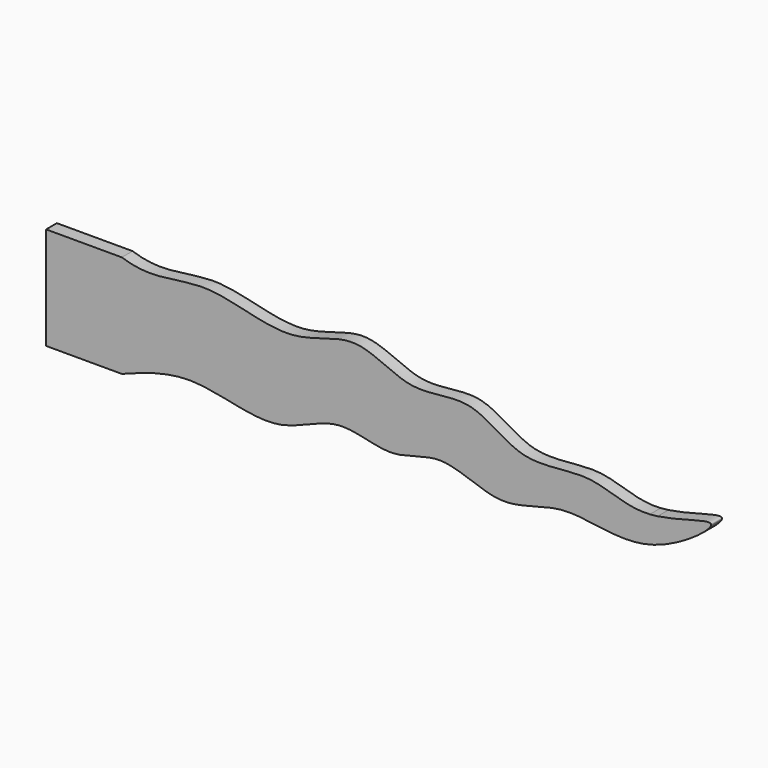
from build123d import *

# Parameters (mm, degrees)
F1_DEPTH = 7.62


with BuildPart() as f1:
    # F0 (on Front) → F1 (new body)
    with BuildSketch(Plane.XZ):
        Polygon((-87.3566900936, 24.3793912232), (-130.1354726401, 24.3793912232), (-130.1354726401, 0), (-130.1354726401, -18.9905874431), (-130.1354726401, -33.5970278829), (-87.3566900936, -33.5970278829), align=None)
        with BuildLine():
            add(Edge.make_bspline(
                [(-87.3566900936, 24.3793912232), (-69.4034103706, 18.1349657667), (-41.4667494618, 31.5656433046), (7.6381158197, 9.4513459933), (44.4795412986, 32.0378952505), (75.3770812934, 7.9364170704), (110.7649094387, 20.9116876821), (138.0293125859, -6.7892248925), (178.4275538516, 5.1494129016), (196.9018641413, -7.2820785177), (210.9748572111, -6.4078550786)],
                knots=[0, 0, 0, 0, 0.0620833506, 0.1250646596, 0.1802912998, 0.2325632788, 0.2844257443, 0.3367838025, 0.3916703824, 0.4451586512, 0.4451586512, 0.4451586512, 0.4451586512], degree=3))
            Line((-87.3566900936, 24.3793912232), (-87.3566900936, -33.5970278829))
            add(Edge.make_bspline(
                [(215.3657938969, -5.9464283669), (228.7327105355, -4.0427402023), (262.6882900947, 9.4547860101), (207.7837130199, -32.504475395), (163.3954368004, -13.6609146197), (127.4062711613, -33.519876469), (93.5660595696, -11.9828986932), (65.3633939293, -28.3646407153), (33.629209722, -12.8950538461), (0.4476101762, -37.6439313558), (-46.8651643357, -18.9559544616), (-72.3392538457, -27.9195932976), (-87.3566900936, -33.5970278829)],
                knots=[0.4505590516, 0.4505590516, 0.4505590516, 0.4505590516, 0.498725606, 0.5558087309, 0.6192010486, 0.673528838, 0.7267319544, 0.775118198, 0.8251733767, 0.8796488963, 0.9409193869, 1, 1, 1, 1], degree=3))
            add(Edge.make_bspline(
                [(210.9748572111, -6.4078550786), (212.3957257179, -6.3195898072), (213.867104566, -6.1598685505), (215.3657938969, -5.9464283669)],
                knots=[0.4451586512, 0.4451586512, 0.4451586512, 0.4451586512, 0.4505590516, 0.4505590516, 0.4505590516, 0.4505590516], degree=3))
        make_face()
        with BuildLine():
            Line((215.3657938969, -5.9464283669), (210.9748572111, -6.4078550786))
            add(Edge.make_bspline(
                [(210.9748572111, -6.4078550786), (212.3957257179, -6.3195898072), (213.867104566, -6.1598685505), (215.3657938969, -5.9464283669)],
                knots=[0.4451586512, 0.4451586512, 0.4451586512, 0.4451586512, 0.4505590516, 0.4505590516, 0.4505590516, 0.4505590516], degree=3))
        make_face()
    extrude(amount=F1_DEPTH)


solid = f1.part
